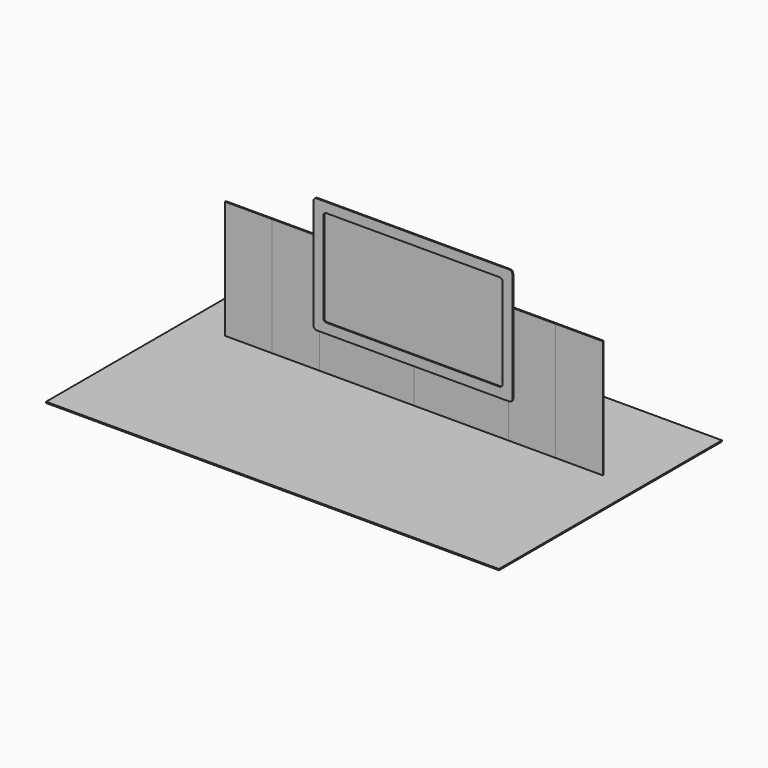
from build123d import *

# Parameters (mm, degrees)
F0_W     = 1219.2
F0_H     = 3048
F1_DEPTH = 30.48
F0_W_2   = 2438.4
F0_H_2   = 914.4
F0_W_3   = 126.9999492
F0_H_3   = 2133.6
F2_DEPTH = 30.48
F0_W_4   = 4622.8001016
F0_H_4   = 2489.2001016
F3_DEPTH = 30.48
F4_DEPTH = 3.048
F5_R     = 76.2
F6_W     = 11690.8322572708
F6_H     = 7194.3583488464
F7_DEPTH = 30.48


with BuildPart() as f1:
    # F0 (on Front) → F1 (new body)
    with BuildSketch(Plane.XZ):
        with Locations((609.6, 1524)):
            Rectangle(F0_W, F0_H)
    extrude(amount=-F1_DEPTH)


with BuildPart() as f1b:
    # F0 (on Front) → F1, piece 2 (new body)
    with BuildSketch(Plane.XZ):
        with Locations((3657.6, 457.2)):
            Rectangle(F0_W_2, F0_H_2)
    extrude(amount=-F1_DEPTH)


with BuildPart() as f1c:
    # F0 (on Front) → F1, piece 3 (new body)
    with BuildSketch(Plane.XZ):
        Polygon((7315.2, 914.4), (7315.2, 0), (8534.4, 0), (8534.4, 3048), (7442.1999492, 3048), (7442.1999492, 914.4), align=None)
        with Locations((7378.6999746, 1981.2)):
            Rectangle(F0_W_3, F0_H_3)
    extrude(amount=-F1_DEPTH)


with BuildPart() as f2:
    # F0 (on Front) → F2 (new body)
    with BuildSketch(Plane.XZ):
        Polygon((1219.2, 3048), (1219.2, 0), (2438.4, 0), (2438.4, 914.4), (2311.4000508, 914.4), (2311.4000508, 3048), align=None)
        with Locations((2374.9000254, 1981.2)):
            Rectangle(F0_W_3, F0_H_3)
    extrude(amount=-F2_DEPTH)


with BuildPart() as f2b:
    # F0 (on Front) → F2, piece 2 (new body)
    with BuildSketch(Plane.XZ):
        with Locations((6096, 457.2)):
            Rectangle(F0_W_2, F0_H_2)
    extrude(amount=-F2_DEPTH)


with BuildPart() as f2c:
    # F0 (on Front) → F2, piece 3 (new body)
    with BuildSketch(Plane.XZ):
        with Locations((9144, 1524)):
            Rectangle(F0_W, F0_H)
    extrude(amount=-F2_DEPTH)


with BuildPart() as f3:
    # F0 (on Front) → F3 (new body)
    with BuildSketch(Plane.XZ):
        Polygon((2311.4000508, 3911.5998984), (2311.4000508, 3048), (2438.4, 3048), (2438.4, 914.4), (4876.8, 914.4), (7315.2, 914.4), (7315.2, 3048), (7442.1999492, 3048), (7442.1999492, 3911.5998984), align=None)
        with Locations((4876.8, 2412.9999492)):
            Rectangle(F0_W_4, F0_H_4, mode=Mode.SUBTRACT)
        with Locations((2374.9000254, 1981.2)):
            Rectangle(F0_W_3, F0_H_3)
        with Locations((7378.6999746, 1981.2)):
            Rectangle(F0_W_3, F0_H_3)
    extrude(amount=F3_DEPTH)

    # F5
    f5_edges = [f3.edges().sort_by_distance(p)[0] for p in [
        (2311.400051, -15.24, 3911.599898),
        (2565.399949, -15.24, 3657.6),
        (2311.400051, -15.24, 914.4),
        (2565.399949, -15.24, 1168.399898),
        (7442.199949, -15.24, 914.4),
        (7188.200051, -15.24, 1168.399898),
        (7442.199949, -15.24, 3911.599898),
        (7188.200051, -15.24, 3657.6),
    ]]
    fillet(f5_edges, radius=F5_R)


with BuildPart() as f4:
    # F0 (on Front) → F4 (new body)
    with BuildSketch(Plane.XZ):
        with Locations((4876.8, 2412.9999492)):
            Rectangle(F0_W_4, F0_H_4)
    extrude(amount=F4_DEPTH)


with BuildPart() as f7:
    # F6 (on Top) → F7 (new body)
    with BuildSketch(Plane.XY):
        with Locations((4826.5799880028, -901.5548229218)):
            Rectangle(F6_W, F6_H)
    extrude(amount=-F7_DEPTH)


solid = Compound([f1.part, f1b.part, f1c.part, f2.part, f2b.part, f2c.part, f3.part, f4.part, f7.part])
